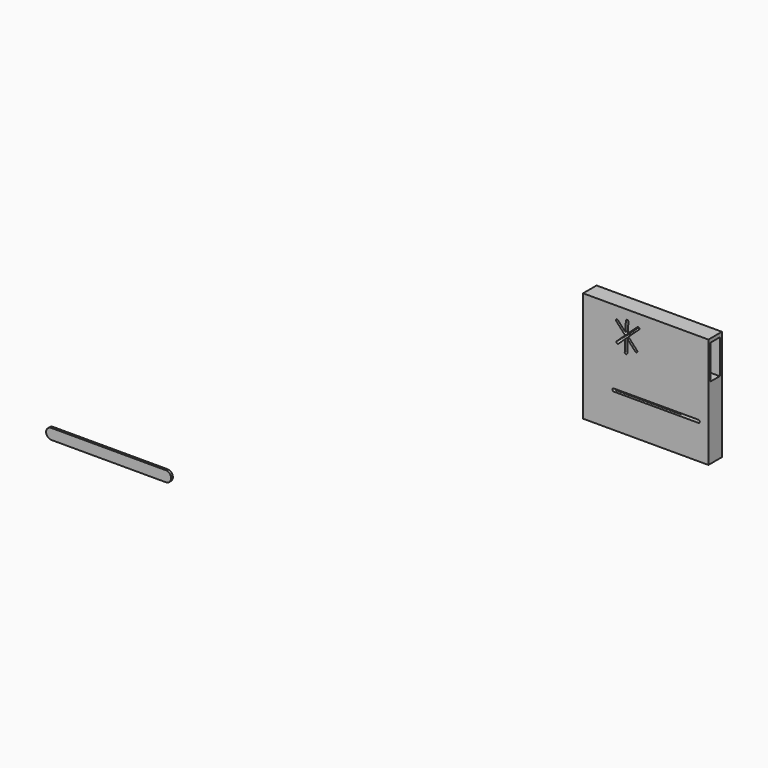
from build123d import *

# Parameters (mm, degrees)
F0_W      = 458.6658775806
F0_H      = 376.6978979111
F1_DEPTH  = 152.4
F2_W      = 152.4
F2_H      = 376.6978979111
F2_W_2    = 106.1868537426
F2_H_2    = 318.1016072631
F3_DEPTH  = 213.9821406454
F4_W      = 152.4
F4_H      = 376.6978979111
F4_W_2    = 103.601830101
F4_H_2    = 308.7738156319
F5_DEPTH  = 457.5351234525
F6_W      = 1130.1831416786
F6_H      = 152.4
F6_W_2    = 591.5388166904
F6_H_2    = 99.6719766617
F7_DEPTH  = 618.9263183624
F9_DEPTH  = 152.401
F11_DEPTH = 20.32


with BuildPart() as f1:
    # F0 (on Front) → F1 (new body)
    with BuildSketch(Plane.XZ):
        with Locations((46.2650805712, 19.9848115444)):
            Rectangle(F0_W, F0_H)
        with BuildLine():
            Line((-82.9178265469, 98.1183218425), (-14.9561973089, 24.7206499518))
            Line((-14.9561973089, 24.7206499518), (-11.4215578744, 116.6357050964))
            ThreePointArc((-11.4215578744, 116.6357050964), (0.4392217227, 127.618041248), (11.4215578744, 115.7572616509))
            Line((11.4215578744, 115.7572616509), (7.7721333286, 20.857325011))
            Line((7.7721333286, 20.857325011), (93.1694541833, 99.9298747028))
            ThreePointArc((93.1694541833, 99.9298747028), (108.4246138966, 99.3432299033), (107.8379690971, 84.0880701899))
            Line((107.8379690971, 84.0880701899), (12.1297019485, -4.5317674616))
            Line((12.1297019485, -4.5317674616), (15.5287839348, -8.2027316093))
            Line((15.5287839348, -8.2027316093), (90.1474633082, -88.7899306947))
            ThreePointArc((90.1474633082, -88.7899306947), (89.5953270262, -103.147728072), (75.237529649, -102.59559179))
            Line((75.237529649, -102.59559179), (5.9042024306, -27.716503997))
            Line((5.9042024306, -27.716503997), (1.6331050901, -138.7824712224))
            ThreePointArc((1.6331050901, -138.7824712224), (-10.2276745071, -149.7648073741), (-21.2100106587, -137.9040277769))
            Line((-21.2100106587, -137.9040277769), (-17.1227154648, -31.617666719))
            Line((-17.1227154648, -31.617666719), (-79.0702834402, -88.9772196651))
            ThreePointArc((-79.0702834402, -88.9772196651), (-94.3254431535, -88.3905748655), (-93.738798354, -73.1354151522))
            Line((-93.738798354, -73.1354151522), (-23.6123482512, -8.2027316093))
            Line((-23.6123482512, -8.2027316093), (-17.4487466244, -2.495624044))
            Line((-17.4487466244, -2.495624044), (-97.827760206, 84.3126607472))
            ThreePointArc((-97.827760206, 84.3126607472), (-97.2756239241, 98.6704581245), (-82.9178265469, 98.1183218425))
        make_face(mode=Mode.SUBTRACT)
    extrude(amount=F1_DEPTH)

    # F2 (on face) → F3 (join)
    with BuildSketch(Plane(origin=(-183.0678582191, 0, 0), x_dir=(0, -1, 0), z_dir=(-1, 0, 0))):
        with Locations((76.2, 19.9848115444)):
            Rectangle(F2_W, F2_H)
        with Locations((76.2, 30.3113125265)):
            Rectangle(F2_W_2, F2_H_2, mode=Mode.SUBTRACT)
    extrude(amount=F3_DEPTH)

    # F4 (on face) → F5 (join)
    with BuildSketch(Plane.YZ.offset(275.5980193615)):
        with Locations((-76.2, 19.9848115444)):
            Rectangle(F4_W, F4_H)
        with Locations((-76.2, 19.9848115444)):
            Rectangle(F4_W_2, F4_H_2, mode=Mode.SUBTRACT)
    extrude(amount=F5_DEPTH)

    # F6 (on face) → F7 (join)
    with BuildSketch(Plane(origin=(0, 0, -168.3641374111), x_dir=(1, 0, 0), z_dir=(0, 0, -1))):
        with Locations((168.0415719748, 76.2)):
            Rectangle(F6_W, F6_H)
        with Locations((168.0415719748, 76.2)):
            Rectangle(F6_W_2, F6_H_2, mode=Mode.SUBTRACT)
    extrude(amount=F7_DEPTH)

    # F8 (on face) → F9 (cut, through all)
    with BuildSketch(Plane(origin=(0, 0, 0), x_dir=(-1, 0, 0), z_dir=(0, 1, 0))):
        with BuildLine():
            ThreePointArc((-642.9176926613, -457.0822928429), (-655.6176926613, -469.7822928429), (-642.9176926613, -482.4822928429))
            Line((-642.9176926613, -482.4822928429), (119.0823073387, -482.4822928429))
            ThreePointArc((119.0823073387, -482.4822928429), (131.7823073387, -469.7822928429), (119.0823073387, -457.0822928429))
            Line((119.0823073387, -457.0822928429), (-642.9176926613, -457.0822928429))
        make_face()
    extrude(amount=-F9_DEPTH, mode=Mode.SUBTRACT)


with BuildPart() as f11:
    # F10 (on Front) → F11 (new body)
    with BuildSketch(Plane.XZ):
        with BuildLine():
            Line((-5297.3633460999, -2603.4653430939), (-4265.4883460999, -2603.4653430939))
            ThreePointArc((-4265.4883460999, -2603.4653430939), (-4231.8123856458, -2589.5163035479), (-4217.8633460999, -2555.8403430939))
            ThreePointArc((-4217.8633460999, -2555.8403430939), (-4231.8123856458, -2522.1643826399), (-4265.4883460999, -2508.2153430939))
            Line((-4265.4883460999, -2508.2153430939), (-5297.3633460999, -2508.2153430939))
            ThreePointArc((-5297.3633460999, -2508.2153430939), (-5331.0393065539, -2522.1643826399), (-5344.9883460999, -2555.8403430939))
            ThreePointArc((-5344.9883460999, -2555.8403430939), (-5331.0393065539, -2589.5163035479), (-5297.3633460999, -2603.4653430939))
        make_face()
    extrude(amount=F11_DEPTH)


solid = Compound([f1.part, f11.part])
